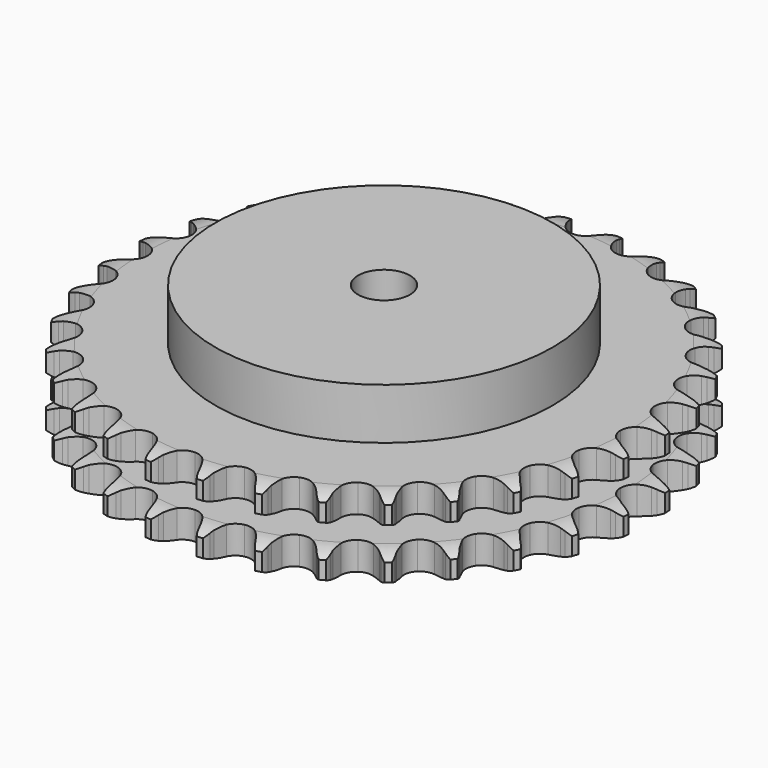
from build123d import *

# Parameters (mm, degrees)
PAD_DEPTH         = 30.3
SKETCH001_R       = 65
PAD001_DEPTH      = 50
SKETCH002_R       = 10
POCKET_DEPTH      = 0.001
POCKET_DEPTH_BACK = 50.001


with BuildPart() as part:
    # Sprocket → Pad (new body)
    with BuildSketch(Plane.XY):
        with BuildLine():
            ThreePointArc((-10.116851, 102.718114), (-8.649052, 100.996178), (-7.613699, 98.984326))
            Line((-7.613699, 98.984326), (-7.024915, 97.419964))
            ThreePointArc((-7.024915, 97.419964), (-6.092294, 95.391135), (-4.882294, 93.514481))
            ThreePointArc((-4.882294, 93.514481), (-2.729224, 91.717825), (0, 91.073606))
            ThreePointArc((0, 91.073606), (2.729224, 91.717825), (4.882294, 93.514481))
            ThreePointArc((4.882294, 93.514481), (6.092294, 95.391135), (7.024915, 97.419964))
            Line((7.024915, 97.419964), (7.613699, 98.984326))
            ThreePointArc((7.613699, 98.984326), (8.649052, 100.996178), (10.116851, 102.718114))
            ThreePointArc((10.116851, 102.718114), (11.220514, 100.742911), (11.84348, 98.567729))
            Line((11.84348, 98.567729), (12.115759, 96.918559))
            ThreePointArc((12.115759, 96.918559), (12.634655, 94.746768), (13.455288, 92.670115))
            ThreePointArc((13.455288, 92.670115), (15.216477, 90.487938), (17.767579, 89.323652))
            ThreePointArc((17.767579, 89.323652), (20.570043, 89.423047), (23.032252, 90.765139))
            Line((23.032252, 90.765139), (25.895625, 94.177574))
            ThreePointArc((25.895625, 94.177574), (26.318124, 94.899003), (26.778288, 95.597011))
            ThreePointArc((26.778288, 95.597011), (28.186239, 97.368218), (29.961769, 98.770715))
            ThreePointArc((29.961769, 98.770715), (30.658882, 96.61815), (30.845521, 94.363229))
            Line((30.845521, 94.363229), (30.790831, 92.692629))
            ThreePointArc((30.790831, 92.692629), (30.876061, 90.461337), (31.275791, 88.264488))
            ThreePointArc((31.275791, 88.264488), (32.577417, 85.78065), (34.85236, 84.141041))
            ThreePointArc((34.85236, 84.141041), (37.620367, 83.691792), (40.297094, 84.527742))
            Line((40.297094, 84.527742), (43.771181, 87.315992))
            ThreePointArc((43.771181, 87.315992), (44.326306, 87.941134), (44.913802, 88.535956))
            ThreePointArc((44.913802, 88.535956), (46.640246, 89.998453), (48.655272, 91.027612))
            ThreePointArc((48.655272, 91.027612), (48.919046, 88.780408), (48.662186, 86.532404))
            Line((48.662186, 86.532404), (48.282629, 84.904573))
            ThreePointArc((48.282629, 84.904573), (47.930918, 82.699527), (47.894383, 80.466907))
            ThreePointArc((47.894383, 80.466907), (48.686426, 77.77686), (50.597785, 75.724936))
            ThreePointArc((50.597785, 75.724936), (53.22496, 74.744308), (56.013341, 75.041992))
            Line((56.013341, 75.041992), (59.964635, 77.098906))
            ThreePointArc((59.964635, 77.098906), (60.631053, 77.603736), (61.323305, 78.072515))
            ThreePointArc((61.323305, 78.072515), (63.301894, 79.170097), (65.478981, 79.786369))
            ThreePointArc((65.478981, 79.786369), (65.299279, 77.530885), (64.60879, 75.376186))
            Line((64.60879, 75.376186), (63.918952, 73.853682))
            ThreePointArc((63.918952, 73.853682), (63.143816, 71.759621), (62.672421, 69.577027))
            ThreePointArc((62.672421, 69.577027), (62.924443, 66.784149), (64.398765, 64.398765))
            ThreePointArc((64.398765, 64.398765), (66.784149, 62.924443), (69.577027, 62.672421))
            Line((69.577027, 62.672421), (73.853682, 63.918952))
            ThreePointArc((73.853682, 63.918952), (74.605782, 64.284071), (75.376186, 64.60879))
            ThreePointArc((75.376186, 64.60879), (77.530885, 65.299279), (79.786369, 65.478981))
            ThreePointArc((79.786369, 65.478981), (79.170097, 63.301894), (78.072515, 61.323305))
            Line((78.072515, 61.323305), (77.098906, 59.964635))
            ThreePointArc((77.098906, 59.964635), (75.930133, 58.062032), (75.041992, 56.013341))
            ThreePointArc((75.041992, 56.013341), (74.744308, 53.22496), (75.724936, 50.597785))
            ThreePointArc((75.724936, 50.597785), (77.77686, 48.686426), (80.466907, 47.894383))
            Line((80.466907, 47.894383), (84.904573, 48.282629))
            ThreePointArc((84.904573, 48.282629), (85.713453, 48.494004), (86.532404, 48.662186))
            ThreePointArc((86.532404, 48.662186), (88.780408, 48.919046), (91.027612, 48.655272))
            ThreePointArc((91.027612, 48.655272), (89.998453, 46.640246), (88.535956, 44.913802))
            Line((88.535956, 44.913802), (87.315992, 43.771181))
            ThreePointArc((87.315992, 43.771181), (85.798497, 42.133153), (84.527742, 40.297094))
            ThreePointArc((84.527742, 40.297094), (83.691792, 37.620367), (84.141041, 34.85236))
            ThreePointArc((84.141041, 34.85236), (85.78065, 32.577417), (88.264488, 31.275791))
            Line((88.264488, 31.275791), (92.692629, 30.790831))
            ThreePointArc((92.692629, 30.790831), (93.527204, 30.84034), (94.363229, 30.845521))
            ThreePointArc((94.363229, 30.845521), (96.61815, 30.658882), (98.770715, 29.961769))
            ThreePointArc((98.770715, 29.961769), (97.368218, 28.186239), (95.597011, 26.778288))
            Line((95.597011, 26.778288), (94.177574, 25.895625))
            ThreePointArc((94.177574, 25.895625), (92.369673, 24.585119), (90.765139, 23.032252))
            ThreePointArc((90.765139, 23.032252), (89.423047, 20.570043), (89.323652, 17.767579))
            ThreePointArc((89.323652, 17.767579), (90.487938, 15.216477), (92.670115, 13.455288))
            Line((92.670115, 13.455288), (96.918559, 12.115759))
            ThreePointArc((96.918559, 12.115759), (97.746757, 12.0015), (98.567729, 11.84348))
            ThreePointArc((98.567729, 11.84348), (100.742911, 11.220514), (102.718114, 10.116851))
            ThreePointArc((102.718114, 10.116851), (100.996178, 8.649052), (98.984326, 7.613699))
            Line((98.984326, 7.613699), (97.419964, 7.024915))
            ThreePointArc((97.419964, 7.024915), (95.391135, 6.092294), (93.514481, 4.882294))
            ThreePointArc((93.514481, 4.882294), (91.717825, 2.729224), (91.073606, 0))
            ThreePointArc((91.073606, 0), (91.717825, -2.729224), (93.514481, -4.882294))
            Line((93.514481, -4.882294), (97.419964, -7.024915))
            ThreePointArc((97.419964, -7.024915), (98.209956, -7.298552), (98.984326, -7.613699))
            ThreePointArc((98.984326, -7.613699), (100.996178, -8.649052), (102.718114, -10.116851))
            ThreePointArc((102.718114, -10.116851), (100.742911, -11.220514), (98.567729, -11.84348))
            Line((98.567729, -11.84348), (96.918559, -12.115759))
            ThreePointArc((96.918559, -12.115759), (94.746768, -12.634655), (92.670115, -13.455288))
            ThreePointArc((92.670115, -13.455288), (90.487938, -15.216477), (89.323652, -17.767579))
            ThreePointArc((89.323652, -17.767579), (89.423047, -20.570043), (90.765139, -23.032252))
            Line((90.765139, -23.032252), (94.177574, -25.895625))
            ThreePointArc((94.177574, -25.895625), (94.899003, -26.318124), (95.597011, -26.778288))
            ThreePointArc((95.597011, -26.778288), (97.368218, -28.186239), (98.770715, -29.961769))
            ThreePointArc((98.770715, -29.961769), (96.61815, -30.658882), (94.363229, -30.845521))
            Line((94.363229, -30.845521), (92.692629, -30.790831))
            ThreePointArc((92.692629, -30.790831), (90.461337, -30.876061), (88.264488, -31.275791))
            ThreePointArc((88.264488, -31.275791), (85.78065, -32.577417), (84.141041, -34.85236))
            ThreePointArc((84.141041, -34.85236), (83.691792, -37.620367), (84.527742, -40.297094))
            Line((84.527742, -40.297094), (87.315992, -43.771181))
            ThreePointArc((87.315992, -43.771181), (87.941134, -44.326306), (88.535956, -44.913802))
            ThreePointArc((88.535956, -44.913802), (89.998453, -46.640246), (91.027612, -48.655272))
            ThreePointArc((91.027612, -48.655272), (88.780408, -48.919046), (86.532404, -48.662186))
            Line((86.532404, -48.662186), (84.904573, -48.282629))
            ThreePointArc((84.904573, -48.282629), (82.699527, -47.930918), (80.466907, -47.894383))
            ThreePointArc((80.466907, -47.894383), (77.77686, -48.686426), (75.724936, -50.597785))
            ThreePointArc((75.724936, -50.597785), (74.744308, -53.22496), (75.041992, -56.013341))
            Line((75.041992, -56.013341), (77.098906, -59.964635))
            ThreePointArc((77.098906, -59.964635), (77.603736, -60.631053), (78.072515, -61.323305))
            ThreePointArc((78.072515, -61.323305), (79.170097, -63.301894), (79.786369, -65.478981))
            ThreePointArc((79.786369, -65.478981), (77.530885, -65.299279), (75.376186, -64.60879))
            Line((75.376186, -64.60879), (73.853682, -63.918952))
            ThreePointArc((73.853682, -63.918952), (71.759621, -63.143816), (69.577027, -62.672421))
            ThreePointArc((69.577027, -62.672421), (66.784149, -62.924443), (64.398765, -64.398765))
            ThreePointArc((64.398765, -64.398765), (62.924443, -66.784149), (62.672421, -69.577027))
            Line((62.672421, -69.577027), (63.918952, -73.853682))
            ThreePointArc((63.918952, -73.853682), (64.284071, -74.605782), (64.60879, -75.376186))
            ThreePointArc((64.60879, -75.376186), (65.299279, -77.530885), (65.478981, -79.786369))
            ThreePointArc((65.478981, -79.786369), (63.301894, -79.170097), (61.323305, -78.072515))
            Line((61.323305, -78.072515), (59.964635, -77.098906))
            ThreePointArc((59.964635, -77.098906), (58.062032, -75.930133), (56.013341, -75.041992))
            ThreePointArc((56.013341, -75.041992), (53.22496, -74.744308), (50.597785, -75.724936))
            ThreePointArc((50.597785, -75.724936), (48.686426, -77.77686), (47.894383, -80.466907))
            Line((47.894383, -80.466907), (48.282629, -84.904573))
            ThreePointArc((48.282629, -84.904573), (48.494004, -85.713453), (48.662186, -86.532404))
            ThreePointArc((48.662186, -86.532404), (48.919046, -88.780408), (48.655272, -91.027612))
            ThreePointArc((48.655272, -91.027612), (46.640246, -89.998453), (44.913802, -88.535956))
            Line((44.913802, -88.535956), (43.771181, -87.315992))
            ThreePointArc((43.771181, -87.315992), (42.133153, -85.798497), (40.297094, -84.527742))
            ThreePointArc((40.297094, -84.527742), (37.620367, -83.691792), (34.85236, -84.141041))
            ThreePointArc((34.85236, -84.141041), (32.577417, -85.78065), (31.275791, -88.264488))
            Line((31.275791, -88.264488), (30.790831, -92.692629))
            ThreePointArc((30.790831, -92.692629), (30.84034, -93.527204), (30.845521, -94.363229))
            ThreePointArc((30.845521, -94.363229), (30.658882, -96.61815), (29.961769, -98.770715))
            ThreePointArc((29.961769, -98.770715), (28.186239, -97.368218), (26.778288, -95.597011))
            Line((26.778288, -95.597011), (25.895625, -94.177574))
            ThreePointArc((25.895625, -94.177574), (24.585119, -92.369673), (23.032252, -90.765139))
            ThreePointArc((23.032252, -90.765139), (20.570043, -89.423047), (17.767579, -89.323652))
            ThreePointArc((17.767579, -89.323652), (15.216477, -90.487938), (13.455288, -92.670115))
            Line((13.455288, -92.670115), (12.115759, -96.918559))
            ThreePointArc((12.115759, -96.918559), (12.0015, -97.746757), (11.84348, -98.567729))
            ThreePointArc((11.84348, -98.567729), (11.220514, -100.742911), (10.116851, -102.718114))
            ThreePointArc((10.116851, -102.718114), (8.649052, -100.996178), (7.613699, -98.984326))
            Line((7.613699, -98.984326), (7.024915, -97.419964))
            ThreePointArc((7.024915, -97.419964), (6.092294, -95.391135), (4.882294, -93.514481))
            ThreePointArc((4.882294, -93.514481), (2.729224, -91.717825), (0, -91.073606))
            ThreePointArc((0, -91.073606), (-2.729224, -91.717825), (-4.882294, -93.514481))
            Line((-4.882294, -93.514481), (-7.024915, -97.419964))
            ThreePointArc((-7.024915, -97.419964), (-7.298552, -98.209956), (-7.613699, -98.984326))
            ThreePointArc((-7.613699, -98.984326), (-8.649052, -100.996178), (-10.116851, -102.718114))
            ThreePointArc((-10.116851, -102.718114), (-11.220514, -100.742911), (-11.84348, -98.567729))
            Line((-11.84348, -98.567729), (-12.115759, -96.918559))
            ThreePointArc((-12.115759, -96.918559), (-12.634655, -94.746768), (-13.455288, -92.670115))
            ThreePointArc((-13.455288, -92.670115), (-15.216477, -90.487938), (-17.767579, -89.323652))
            ThreePointArc((-17.767579, -89.323652), (-20.570043, -89.423047), (-23.032252, -90.765139))
            Line((-23.032252, -90.765139), (-25.895625, -94.177574))
            ThreePointArc((-25.895625, -94.177574), (-26.318124, -94.899003), (-26.778288, -95.597011))
            ThreePointArc((-26.778288, -95.597011), (-28.186239, -97.368218), (-29.961769, -98.770715))
            ThreePointArc((-29.961769, -98.770715), (-30.658882, -96.61815), (-30.845521, -94.363229))
            Line((-30.845521, -94.363229), (-30.790831, -92.692629))
            ThreePointArc((-30.790831, -92.692629), (-30.876061, -90.461337), (-31.275791, -88.264488))
            ThreePointArc((-31.275791, -88.264488), (-32.577417, -85.78065), (-34.85236, -84.141041))
            ThreePointArc((-34.85236, -84.141041), (-37.620367, -83.691792), (-40.297094, -84.527742))
            Line((-40.297094, -84.527742), (-43.771181, -87.315992))
            ThreePointArc((-43.771181, -87.315992), (-44.326306, -87.941134), (-44.913802, -88.535956))
            ThreePointArc((-44.913802, -88.535956), (-46.640246, -89.998453), (-48.655272, -91.027612))
            ThreePointArc((-48.655272, -91.027612), (-48.919046, -88.780408), (-48.662186, -86.532404))
            Line((-48.662186, -86.532404), (-48.282629, -84.904573))
            ThreePointArc((-48.282629, -84.904573), (-47.930918, -82.699527), (-47.894383, -80.466907))
            ThreePointArc((-47.894383, -80.466907), (-48.686426, -77.77686), (-50.597785, -75.724936))
            ThreePointArc((-50.597785, -75.724936), (-53.22496, -74.744308), (-56.013341, -75.041992))
            Line((-56.013341, -75.041992), (-59.964635, -77.098906))
            ThreePointArc((-59.964635, -77.098906), (-60.631053, -77.603736), (-61.323305, -78.072515))
            ThreePointArc((-61.323305, -78.072515), (-63.301894, -79.170097), (-65.478981, -79.786369))
            ThreePointArc((-65.478981, -79.786369), (-65.299279, -77.530885), (-64.60879, -75.376186))
            Line((-64.60879, -75.376186), (-63.918952, -73.853682))
            ThreePointArc((-63.918952, -73.853682), (-63.143816, -71.759621), (-62.672421, -69.577027))
            ThreePointArc((-62.672421, -69.577027), (-62.924443, -66.784149), (-64.398765, -64.398765))
            ThreePointArc((-64.398765, -64.398765), (-66.784149, -62.924443), (-69.577027, -62.672421))
            Line((-69.577027, -62.672421), (-73.853682, -63.918952))
            ThreePointArc((-73.853682, -63.918952), (-74.605782, -64.284071), (-75.376186, -64.60879))
            ThreePointArc((-75.376186, -64.60879), (-77.530885, -65.299279), (-79.786369, -65.478981))
            ThreePointArc((-79.786369, -65.478981), (-79.170097, -63.301894), (-78.072515, -61.323305))
            Line((-78.072515, -61.323305), (-77.098906, -59.964635))
            ThreePointArc((-77.098906, -59.964635), (-75.930133, -58.062032), (-75.041992, -56.013341))
            ThreePointArc((-75.041992, -56.013341), (-74.744308, -53.22496), (-75.724936, -50.597785))
            ThreePointArc((-75.724936, -50.597785), (-77.77686, -48.686426), (-80.466907, -47.894383))
            Line((-80.466907, -47.894383), (-84.904573, -48.282629))
            ThreePointArc((-84.904573, -48.282629), (-85.713453, -48.494004), (-86.532404, -48.662186))
            ThreePointArc((-86.532404, -48.662186), (-88.780408, -48.919046), (-91.027612, -48.655272))
            ThreePointArc((-91.027612, -48.655272), (-89.998453, -46.640246), (-88.535956, -44.913802))
            Line((-88.535956, -44.913802), (-87.315992, -43.771181))
            ThreePointArc((-87.315992, -43.771181), (-85.798497, -42.133153), (-84.527742, -40.297094))
            ThreePointArc((-84.527742, -40.297094), (-83.691792, -37.620367), (-84.141041, -34.85236))
            ThreePointArc((-84.141041, -34.85236), (-85.78065, -32.577417), (-88.264488, -31.275791))
            Line((-88.264488, -31.275791), (-92.692629, -30.790831))
            ThreePointArc((-92.692629, -30.790831), (-93.527204, -30.84034), (-94.363229, -30.845521))
            ThreePointArc((-94.363229, -30.845521), (-96.61815, -30.658882), (-98.770715, -29.961769))
            ThreePointArc((-98.770715, -29.961769), (-97.368218, -28.186239), (-95.597011, -26.778288))
            Line((-95.597011, -26.778288), (-94.177574, -25.895625))
            ThreePointArc((-94.177574, -25.895625), (-92.369673, -24.585119), (-90.765139, -23.032252))
            ThreePointArc((-90.765139, -23.032252), (-89.423047, -20.570043), (-89.323652, -17.767579))
            ThreePointArc((-89.323652, -17.767579), (-90.487938, -15.216477), (-92.670115, -13.455288))
            Line((-92.670115, -13.455288), (-96.918559, -12.115759))
            ThreePointArc((-96.918559, -12.115759), (-97.746757, -12.0015), (-98.567729, -11.84348))
            ThreePointArc((-98.567729, -11.84348), (-100.742911, -11.220514), (-102.718114, -10.116851))
            ThreePointArc((-102.718114, -10.116851), (-100.996178, -8.649052), (-98.984326, -7.613699))
            Line((-98.984326, -7.613699), (-97.419964, -7.024915))
            ThreePointArc((-97.419964, -7.024915), (-95.391135, -6.092294), (-93.514481, -4.882294))
            ThreePointArc((-93.514481, -4.882294), (-91.717825, -2.729224), (-91.073606, 0))
            ThreePointArc((-91.073606, 0), (-91.717825, 2.729224), (-93.514481, 4.882294))
            Line((-93.514481, 4.882294), (-97.419964, 7.024915))
            ThreePointArc((-97.419964, 7.024915), (-98.209956, 7.298552), (-98.984326, 7.613699))
            ThreePointArc((-98.984326, 7.613699), (-100.996178, 8.649052), (-102.718114, 10.116851))
            ThreePointArc((-102.718114, 10.116851), (-100.742911, 11.220514), (-98.567729, 11.84348))
            Line((-98.567729, 11.84348), (-96.918559, 12.115759))
            ThreePointArc((-96.918559, 12.115759), (-94.746768, 12.634655), (-92.670115, 13.455288))
            ThreePointArc((-92.670115, 13.455288), (-90.487938, 15.216477), (-89.323652, 17.767579))
            ThreePointArc((-89.323652, 17.767579), (-89.423047, 20.570043), (-90.765139, 23.032252))
            Line((-90.765139, 23.032252), (-94.177574, 25.895625))
            ThreePointArc((-94.177574, 25.895625), (-94.899003, 26.318124), (-95.597011, 26.778288))
            ThreePointArc((-95.597011, 26.778288), (-97.368218, 28.186239), (-98.770715, 29.961769))
            ThreePointArc((-98.770715, 29.961769), (-96.61815, 30.658882), (-94.363229, 30.845521))
            Line((-94.363229, 30.845521), (-92.692629, 30.790831))
            ThreePointArc((-92.692629, 30.790831), (-90.461337, 30.876061), (-88.264488, 31.275791))
            ThreePointArc((-88.264488, 31.275791), (-85.78065, 32.577417), (-84.141041, 34.85236))
            ThreePointArc((-84.141041, 34.85236), (-83.691792, 37.620367), (-84.527742, 40.297094))
            Line((-84.527742, 40.297094), (-87.315992, 43.771181))
            ThreePointArc((-87.315992, 43.771181), (-87.941134, 44.326306), (-88.535956, 44.913802))
            ThreePointArc((-88.535956, 44.913802), (-89.998453, 46.640246), (-91.027612, 48.655272))
            ThreePointArc((-91.027612, 48.655272), (-88.780408, 48.919046), (-86.532404, 48.662186))
            Line((-86.532404, 48.662186), (-84.904573, 48.282629))
            ThreePointArc((-84.904573, 48.282629), (-82.699527, 47.930918), (-80.466907, 47.894383))
            ThreePointArc((-80.466907, 47.894383), (-77.77686, 48.686426), (-75.724936, 50.597785))
            ThreePointArc((-75.724936, 50.597785), (-74.744308, 53.22496), (-75.041992, 56.013341))
            Line((-75.041992, 56.013341), (-77.098906, 59.964635))
            ThreePointArc((-77.098906, 59.964635), (-77.603736, 60.631053), (-78.072515, 61.323305))
            ThreePointArc((-78.072515, 61.323305), (-79.170097, 63.301894), (-79.786369, 65.478981))
            ThreePointArc((-79.786369, 65.478981), (-77.530885, 65.299279), (-75.376186, 64.60879))
            Line((-75.376186, 64.60879), (-73.853682, 63.918952))
            ThreePointArc((-73.853682, 63.918952), (-71.759621, 63.143816), (-69.577027, 62.672421))
            ThreePointArc((-69.577027, 62.672421), (-66.784149, 62.924443), (-64.398765, 64.398765))
            ThreePointArc((-64.398765, 64.398765), (-62.924443, 66.784149), (-62.672421, 69.577027))
            Line((-62.672421, 69.577027), (-63.918952, 73.853682))
            ThreePointArc((-63.918952, 73.853682), (-64.284071, 74.605782), (-64.60879, 75.376186))
            ThreePointArc((-64.60879, 75.376186), (-65.299279, 77.530885), (-65.478981, 79.786369))
            ThreePointArc((-65.478981, 79.786369), (-63.301894, 79.170097), (-61.323305, 78.072515))
            Line((-61.323305, 78.072515), (-59.964635, 77.098906))
            ThreePointArc((-59.964635, 77.098906), (-58.062032, 75.930133), (-56.013341, 75.041992))
            ThreePointArc((-56.013341, 75.041992), (-53.22496, 74.744308), (-50.597785, 75.724936))
            ThreePointArc((-50.597785, 75.724936), (-48.686426, 77.77686), (-47.894383, 80.466907))
            Line((-47.894383, 80.466907), (-48.282629, 84.904573))
            ThreePointArc((-48.282629, 84.904573), (-48.494004, 85.713453), (-48.662186, 86.532404))
            ThreePointArc((-48.662186, 86.532404), (-48.919046, 88.780408), (-48.655272, 91.027612))
            ThreePointArc((-48.655272, 91.027612), (-46.640246, 89.998453), (-44.913802, 88.535956))
            Line((-44.913802, 88.535956), (-43.771181, 87.315992))
            ThreePointArc((-43.771181, 87.315992), (-42.133153, 85.798497), (-40.297094, 84.527742))
            ThreePointArc((-40.297094, 84.527742), (-37.620367, 83.691792), (-34.85236, 84.141041))
            ThreePointArc((-34.85236, 84.141041), (-32.577417, 85.78065), (-31.275791, 88.264488))
            Line((-31.275791, 88.264488), (-30.790831, 92.692629))
            ThreePointArc((-30.790831, 92.692629), (-30.84034, 93.527204), (-30.845521, 94.363229))
            ThreePointArc((-30.845521, 94.363229), (-30.658882, 96.61815), (-29.961769, 98.770715))
            ThreePointArc((-29.961769, 98.770715), (-28.186239, 97.368218), (-26.778288, 95.597011))
            Line((-26.778288, 95.597011), (-25.895625, 94.177574))
            ThreePointArc((-25.895625, 94.177574), (-24.585119, 92.369673), (-23.032252, 90.765139))
            ThreePointArc((-23.032252, 90.765139), (-20.570043, 89.423047), (-17.767579, 89.323652))
            ThreePointArc((-17.767579, 89.323652), (-15.216477, 90.487938), (-13.455288, 92.670115))
            Line((-13.455288, 92.670115), (-12.115759, 96.918559))
            ThreePointArc((-12.115759, 96.918559), (-12.0015, 97.746757), (-11.84348, 98.567729))
            ThreePointArc((-11.84348, 98.567729), (-11.220514, 100.742911), (-10.116851, 102.718114))
        make_face()
    extrude(amount=PAD_DEPTH)

    # Sketch → Groove (revolve, cut)
    with BuildSketch(Plane.XZ):
        with BuildLine():
            ThreePointArc((93.164719, 0), (97.523618, 0.506758), (101.65, 2))
            Line((101.65, 2), (101.65, 8.8))
            ThreePointArc((101.65, 8.8), (97.523618, 10.293242), (93.164719, 10.8))
            Line((65, 10.8), (93.164719, 10.8))
            Line((65, 19.5), (65, 10.8))
            Line((93.164719, 19.5), (65, 19.5))
            ThreePointArc((93.164719, 19.5), (97.523618, 20.006758), (101.65, 21.5))
            Line((101.65, 21.5), (101.65, 28.3))
            ThreePointArc((101.65, 28.3), (97.523618, 29.793242), (93.164719, 30.3))
            Line((93.164719, 30.3), (111.65, 30.3))
            Line((111.65, 30.3), (111.65, 0))
            Line((93.164719, 0), (111.65, 0))
        make_face()
    revolve(axis=Axis((0, 0, 0), (0, 0, 1)), mode=Mode.SUBTRACT)

    # Sketch001 → Pad001 (join)
    with BuildSketch(Plane.XY):
        Circle(SKETCH001_R)
    extrude(amount=PAD001_DEPTH)

    # Sketch002 → Pocket (cut, two sides)
    with BuildSketch(Plane.XY) as pocket_sk:
        Circle(SKETCH002_R)
    extrude(amount=-POCKET_DEPTH, mode=Mode.SUBTRACT)
    extrude(pocket_sk.sketch, amount=POCKET_DEPTH_BACK, mode=Mode.SUBTRACT)


solid = part.part
